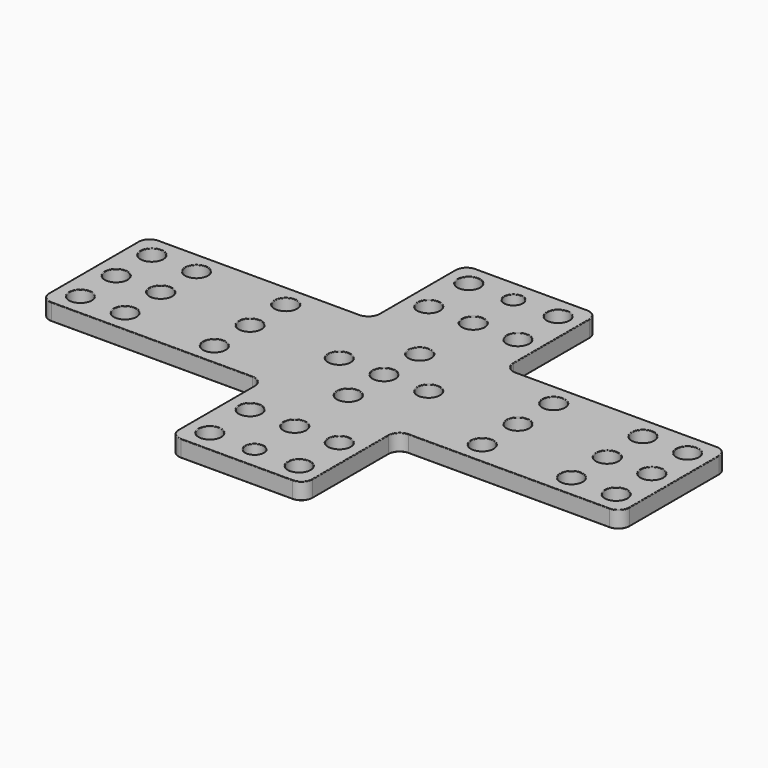
from build123d import *

# Parameters (mm, degrees)
F0_R     = 2
F1_DEPTH = 3
F3_D     = 3.3
F4_R     = 0.1


with BuildPart() as f1:
    # F0 (on Top) → F1 (new body)
    with BuildSketch(Plane.XY):
        with BuildLine():
            ThreePointArc((-12, -31), (-11.4142135624, -32.4142135624), (-10, -33))
            Line((-10, -33), (10, -33))
            ThreePointArc((10, -33), (11.4142135624, -32.4142135624), (12, -31))
            Line((12, -31), (12, -14))
            ThreePointArc((12, -14), (12.5857864376, -12.5857864376), (14, -12))
            Line((14, -12), (50, -12))
            ThreePointArc((50, -12), (51.4142135624, -11.4142135624), (52, -10))
            Line((52, -10), (52, 10))
            ThreePointArc((52, 10), (51.4142135624, 11.4142135624), (50, 12))
            Line((50, 12), (14, 12))
            ThreePointArc((14, 12), (12.5857864376, 12.5857864376), (12, 14))
            Line((12, 14), (12, 31))
            ThreePointArc((12, 31), (11.4142135624, 32.4142135624), (10, 33))
            Line((10, 33), (-10, 33))
            ThreePointArc((-10, 33), (-11.4142135624, 32.4142135624), (-12, 31))
            Line((-12, 31), (-12, 14))
            ThreePointArc((-12, 14), (-12.5857864376, 12.5857864376), (-14, 12))
            Line((-14, 12), (-50, 12))
            ThreePointArc((-50, 12), (-51.4142135624, 11.4142135624), (-52, 10))
            Line((-52, 10), (-52, -10))
            ThreePointArc((-52, -10), (-51.4142135624, -11.4142135624), (-50, -12))
            Line((-50, -12), (-14, -12))
            ThreePointArc((-14, -12), (-12.5857864376, -12.5857864376), (-12, -14))
            Line((-12, -14), (-12, -31))
        make_face()
        with Locations((-8, -29)):
            Circle(F0_R, mode=Mode.SUBTRACT)
        with Locations((-8, -20)):
            Circle(F0_R, mode=Mode.SUBTRACT)
        with Locations((-48, -8)):
            Circle(F0_R, mode=Mode.SUBTRACT)
        with Locations((-40, -8)):
            Circle(F0_R, mode=Mode.SUBTRACT)
        with Locations((-24, -8)):
            Circle(F0_R, mode=Mode.SUBTRACT)
        with Locations((8, -29)):
            Circle(F0_R, mode=Mode.SUBTRACT)
        with Locations((0, -20)):
            Circle(F0_R, mode=Mode.SUBTRACT)
        with Locations((8, -20)):
            Circle(F0_R, mode=Mode.SUBTRACT)
        with Locations((0, -8)):
            Circle(F0_R, mode=Mode.SUBTRACT)
        with Locations((24, -8)):
            Circle(F0_R, mode=Mode.SUBTRACT)
        with Locations((40, -8)):
            Circle(F0_R, mode=Mode.SUBTRACT)
        with Locations((48, -8)):
            Circle(F0_R, mode=Mode.SUBTRACT)
        with Locations((-48, 0)):
            Circle(F0_R, mode=Mode.SUBTRACT)
        with Locations((-40, 0)):
            Circle(F0_R, mode=Mode.SUBTRACT)
        with Locations((-48, 8)):
            Circle(F0_R, mode=Mode.SUBTRACT)
        with Locations((-40, 8)):
            Circle(F0_R, mode=Mode.SUBTRACT)
        with Locations((-24, 0)):
            Circle(F0_R, mode=Mode.SUBTRACT)
        with Locations((-24, 8)):
            Circle(F0_R, mode=Mode.SUBTRACT)
        with Locations((-8, 0)):
            Circle(F0_R, mode=Mode.SUBTRACT)
        with Locations((-8, 20)):
            Circle(F0_R, mode=Mode.SUBTRACT)
        with Locations((-8, 29)):
            Circle(F0_R, mode=Mode.SUBTRACT)
        Circle(F0_R, mode=Mode.SUBTRACT)
        with Locations((8, 0)):
            Circle(F0_R, mode=Mode.SUBTRACT)
        with Locations((0, 8)):
            Circle(F0_R, mode=Mode.SUBTRACT)
        with Locations((24, 0)):
            Circle(F0_R, mode=Mode.SUBTRACT)
        with Locations((24, 8)):
            Circle(F0_R, mode=Mode.SUBTRACT)
        with Locations((40, 0)):
            Circle(F0_R, mode=Mode.SUBTRACT)
        with Locations((48, 0)):
            Circle(F0_R, mode=Mode.SUBTRACT)
        with Locations((40, 8)):
            Circle(F0_R, mode=Mode.SUBTRACT)
        with Locations((48, 8)):
            Circle(F0_R, mode=Mode.SUBTRACT)
        with Locations((0, 20)):
            Circle(F0_R, mode=Mode.SUBTRACT)
        with Locations((8, 20)):
            Circle(F0_R, mode=Mode.SUBTRACT)
        with Locations((8, 29)):
            Circle(F0_R, mode=Mode.SUBTRACT)
    extrude(amount=F1_DEPTH)

    # F3 (through all)
    with Locations(Plane(origin=(0, 0, 0), x_dir=(1, 0, 0), z_dir=(0, 0, -1))):
        with Locations((0, 29), (0, -29)):
            Hole(F3_D / 2)

    # F4
    f4_edges = [f1.edges().sort_by_distance(p)[0] for p in [
        (-11.414214, -32.414214, 0),
        (-12, -22.5, 0),
        (0, -33, 0),
        (-12.585786, -12.585786, 0),
        (11.414214, -32.414214, 0),
        (-32, -12, 0),
        (12, -22.5, 0),
        (-51.414214, -11.414214, 0),
        (12.585786, -12.585786, 0),
        (-52, 0, 0),
        (32, -12, 0),
        (-51.414214, 11.414214, 0),
        (51.414214, -11.414214, 0),
        (-32, 12, 0),
        (52, 0, 0),
        (-12.585786, 12.585786, 0),
        (51.414214, 11.414214, 0),
        (-12, 22.5, 0),
        (32, 12, 0),
        (-11.414214, 32.414214, 0),
        (12.585786, 12.585786, 0),
        (0, 33, 0),
        (12, 22.5, 0),
        (11.414214, 32.414214, 0),
        (-10, -29, 0),
        (-10, -20, 0),
        (-50, -8, 0),
        (-42, -8, 0),
        (-26, -8, 0),
        (-1.65, -29, 0),
        (6, -29, 0),
        (-2, -20, 0),
        (6, -20, 0),
        (-2, -8, 0),
        (22, -8, 0),
        (38, -8, 0),
        (46, -8, 0),
        (-50, 0, 0),
        (-42, 0, 0),
        (-50, 8, 0),
        (-42, 8, 0),
        (-26, 0, 0),
        (-10, 0, 0),
        (-26, 8, 0),
        (-10, 20, 0),
        (-10, 29, 0),
        (-2, 0, 0),
        (6, 0, 0),
        (22, 0, 0),
        (-2, 8, 0),
        (22, 8, 0),
        (38, 0, 0),
        (46, 0, 0),
        (38, 8, 0),
        (46, 8, 0),
        (-2, 20, 0),
        (6, 20, 0),
        (-1.65, 29, 0),
        (6, 29, 0),
        (-11.414214, -32.414214, 3),
        (-12, -22.5, 3),
        (0, -33, 3),
        (-12.585786, -12.585786, 3),
        (11.414214, -32.414214, 3),
        (-32, -12, 3),
        (12, -22.5, 3),
        (-51.414214, -11.414214, 3),
        (12.585786, -12.585786, 3),
        (-52, 0, 3),
        (32, -12, 3),
        (-51.414214, 11.414214, 3),
        (51.414214, -11.414214, 3),
        (-32, 12, 3),
        (52, 0, 3),
        (-12.585786, 12.585786, 3),
        (51.414214, 11.414214, 3),
        (-12, 22.5, 3),
        (32, 12, 3),
        (-11.414214, 32.414214, 3),
        (12.585786, 12.585786, 3),
        (0, 33, 3),
        (12, 22.5, 3),
        (11.414214, 32.414214, 3),
        (-10, -29, 3),
        (-10, -20, 3),
        (-50, -8, 3),
        (-42, -8, 3),
        (-26, -8, 3),
        (-1.65, -29, 3),
        (6, -29, 3),
        (-2, -20, 3),
        (6, -20, 3),
        (-2, -8, 3),
        (22, -8, 3),
        (38, -8, 3),
        (46, -8, 3),
        (-50, 0, 3),
        (-42, 0, 3),
        (-50, 8, 3),
        (-42, 8, 3),
        (-26, 0, 3),
        (-10, 0, 3),
        (-26, 8, 3),
        (-10, 20, 3),
        (-10, 29, 3),
        (-2, 0, 3),
        (6, 0, 3),
        (22, 0, 3),
        (-2, 8, 3),
        (22, 8, 3),
        (38, 0, 3),
        (46, 0, 3),
        (38, 8, 3),
        (46, 8, 3),
        (-2, 20, 3),
        (6, 20, 3),
        (-1.65, 29, 3),
        (6, 29, 3),
    ]]
    fillet(f4_edges, radius=F4_R)


solid = f1.part
